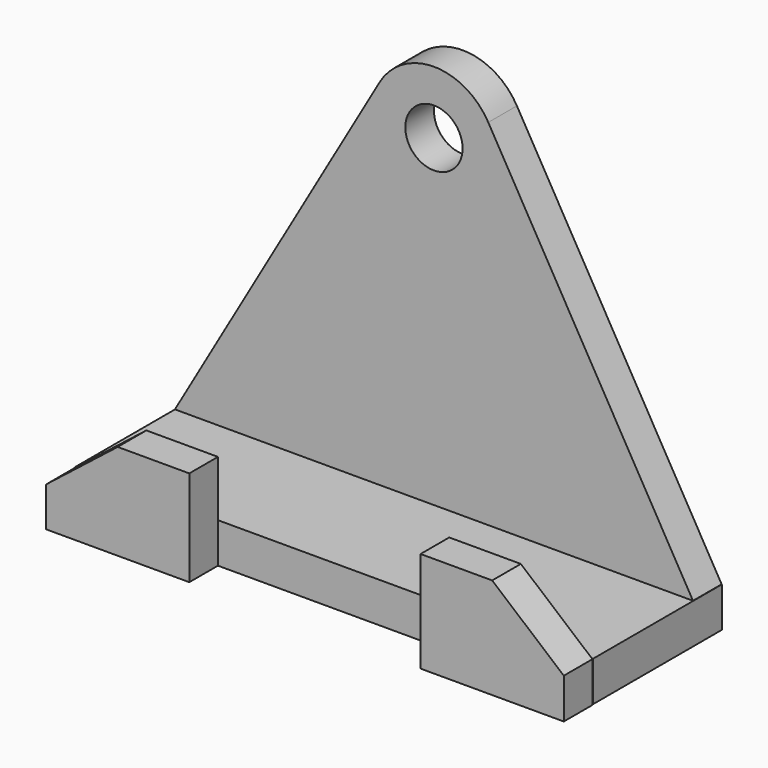
from build123d import *

# Parameters (mm, degrees)
F0_R     = 8
F2_DEPTH = 10
F3_DEPTH = 45
F5_DEPTH = 10


with BuildPart() as f2:
    # F0 (on Front) → F2 (new body)
    with BuildSketch(Plane.XZ):
        with BuildLine():
            Line((-14.09482, 44.536495), (-71.326971, -54.5925))
            Line((-71.326971, -54.5925), (73.482672, -54.5925))
            Line((73.482672, -54.5925), (16.25052, 44.536495))
            ThreePointArc((16.25052, 44.536495), (1.07785, 53.29644), (-14.09482, 44.536495))
        make_face()
        with Locations((1.07785, 35.77655)):
            Circle(F0_R, mode=Mode.SUBTRACT)
    extrude(amount=F2_DEPTH)

    # F1 (on Front) → F3 (join)
    with BuildSketch(Plane.XZ):
        Polygon((73.503241, -54.489337), (-71.249463, -54.489337), (-71.249463, -61.854444), (-71.249463, -65.678634), (73.503241, -65.678634), (73.503241, -61.854444), align=None)
    extrude(amount=F3_DEPTH)

    # F4 (on face) → F5 (join)
    with BuildSketch(Plane.XZ.offset(45)):
        Polygon((-71.249463, -54.64355), (-71.249463, -65.678634), (-31.249463, -65.678634), (-31.249463, -38.922109), (-51.249463, -38.922109), align=None)
        Polygon((33.34011, -65.918161), (73.34011, -65.918161), (73.34011, -54.64355), (53.34011, -37.731093), (33.34011, -37.731093), align=None)
    extrude(amount=F5_DEPTH)


solid = f2.part
